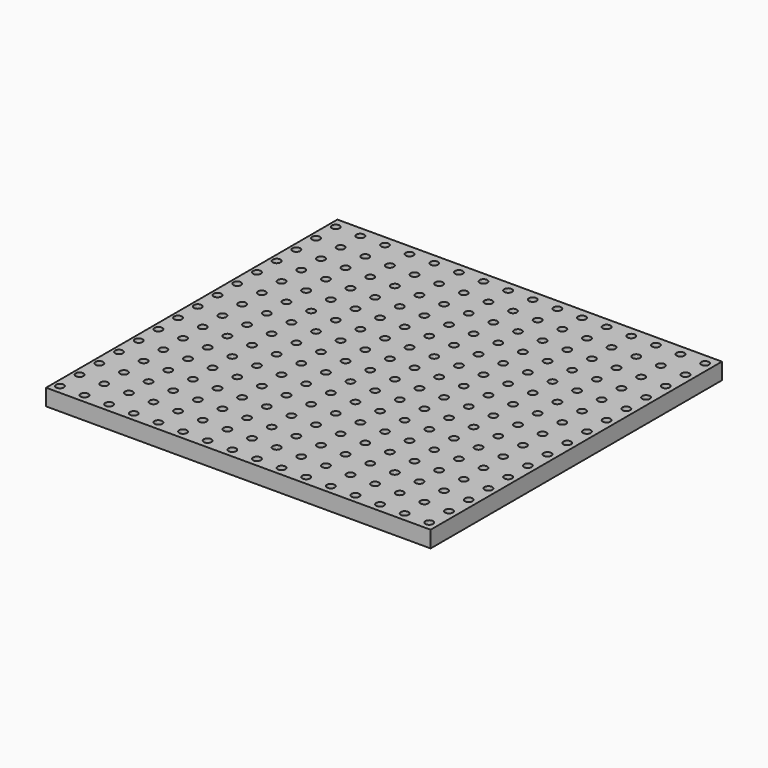
from build123d import *

# Parameters (mm, degrees)
F0_W     = 39.659133
F0_H     = 37.554769
F0_R     = 0.4
F1_DEPTH = 1.7


with BuildPart() as f1:
    # F0 (on Top) → F1 (new body)
    with BuildSketch(Plane.XY):
        with Locations((-11.871156, -15.675176)):
            Rectangle(F0_W, F0_H)
        with Locations((-31.007981, -33.537454)):
            Circle(F0_R, mode=Mode.SUBTRACT)
        with Locations((-28.467981, -33.537454)):
            Circle(F0_R, mode=Mode.SUBTRACT)
        with Locations((-31.007981, -30.997454)):
            Circle(F0_R, mode=Mode.SUBTRACT)
        with Locations((-28.467981, -30.997454)):
            Circle(F0_R, mode=Mode.SUBTRACT)
        with Locations((-25.927981, -33.537454)):
            Circle(F0_R, mode=Mode.SUBTRACT)
        with Locations((-23.387981, -33.537454)):
            Circle(F0_R, mode=Mode.SUBTRACT)
        with Locations((-25.927981, -30.997454)):
            Circle(F0_R, mode=Mode.SUBTRACT)
        with Locations((-23.387981, -30.997454)):
            Circle(F0_R, mode=Mode.SUBTRACT)
        with Locations((-31.007981, -28.457454)):
            Circle(F0_R, mode=Mode.SUBTRACT)
        with Locations((-28.467981, -28.457454)):
            Circle(F0_R, mode=Mode.SUBTRACT)
        with Locations((-31.007981, -25.917454)):
            Circle(F0_R, mode=Mode.SUBTRACT)
        with Locations((-28.467981, -25.917454)):
            Circle(F0_R, mode=Mode.SUBTRACT)
        with Locations((-25.927981, -28.457454)):
            Circle(F0_R, mode=Mode.SUBTRACT)
        with Locations((-23.387981, -28.457454)):
            Circle(F0_R, mode=Mode.SUBTRACT)
        with Locations((-25.927981, -25.917454)):
            Circle(F0_R, mode=Mode.SUBTRACT)
        with Locations((-23.387981, -25.917454)):
            Circle(F0_R, mode=Mode.SUBTRACT)
        with Locations((-20.847981, -33.537454)):
            Circle(F0_R, mode=Mode.SUBTRACT)
        with Locations((-18.307981, -33.537454)):
            Circle(F0_R, mode=Mode.SUBTRACT)
        with Locations((-20.847981, -30.997454)):
            Circle(F0_R, mode=Mode.SUBTRACT)
        with Locations((-18.307981, -30.997454)):
            Circle(F0_R, mode=Mode.SUBTRACT)
        with Locations((-15.767981, -33.537454)):
            Circle(F0_R, mode=Mode.SUBTRACT)
        with Locations((-13.227981, -33.537454)):
            Circle(F0_R, mode=Mode.SUBTRACT)
        with Locations((-15.767981, -30.997454)):
            Circle(F0_R, mode=Mode.SUBTRACT)
        with Locations((-13.227981, -30.997454)):
            Circle(F0_R, mode=Mode.SUBTRACT)
        with Locations((-20.847981, -28.457454)):
            Circle(F0_R, mode=Mode.SUBTRACT)
        with Locations((-18.307981, -28.457454)):
            Circle(F0_R, mode=Mode.SUBTRACT)
        with Locations((-20.847981, -25.917454)):
            Circle(F0_R, mode=Mode.SUBTRACT)
        with Locations((-18.307981, -25.917454)):
            Circle(F0_R, mode=Mode.SUBTRACT)
        with Locations((-15.767981, -28.457454)):
            Circle(F0_R, mode=Mode.SUBTRACT)
        with Locations((-13.227981, -28.457454)):
            Circle(F0_R, mode=Mode.SUBTRACT)
        with Locations((-15.767981, -25.917454)):
            Circle(F0_R, mode=Mode.SUBTRACT)
        with Locations((-13.227981, -25.917454)):
            Circle(F0_R, mode=Mode.SUBTRACT)
        with Locations((-31.007981, -23.377454)):
            Circle(F0_R, mode=Mode.SUBTRACT)
        with Locations((-28.467981, -23.377454)):
            Circle(F0_R, mode=Mode.SUBTRACT)
        with Locations((-31.007981, -20.837454)):
            Circle(F0_R, mode=Mode.SUBTRACT)
        with Locations((-28.467981, -20.837454)):
            Circle(F0_R, mode=Mode.SUBTRACT)
        with Locations((-25.927981, -23.377454)):
            Circle(F0_R, mode=Mode.SUBTRACT)
        with Locations((-23.387981, -23.377454)):
            Circle(F0_R, mode=Mode.SUBTRACT)
        with Locations((-25.927981, -20.837454)):
            Circle(F0_R, mode=Mode.SUBTRACT)
        with Locations((-23.387981, -20.837454)):
            Circle(F0_R, mode=Mode.SUBTRACT)
        with Locations((-31.007981, -18.297454)):
            Circle(F0_R, mode=Mode.SUBTRACT)
        with Locations((-28.467981, -18.297454)):
            Circle(F0_R, mode=Mode.SUBTRACT)
        with Locations((-31.007981, -15.757454)):
            Circle(F0_R, mode=Mode.SUBTRACT)
        with Locations((-28.467981, -15.757454)):
            Circle(F0_R, mode=Mode.SUBTRACT)
        with Locations((-25.927981, -18.297454)):
            Circle(F0_R, mode=Mode.SUBTRACT)
        with Locations((-23.387981, -18.297454)):
            Circle(F0_R, mode=Mode.SUBTRACT)
        with Locations((-25.927981, -15.757454)):
            Circle(F0_R, mode=Mode.SUBTRACT)
        with Locations((-23.387981, -15.757454)):
            Circle(F0_R, mode=Mode.SUBTRACT)
        with Locations((-20.847981, -23.377454)):
            Circle(F0_R, mode=Mode.SUBTRACT)
        with Locations((-18.307981, -23.377454)):
            Circle(F0_R, mode=Mode.SUBTRACT)
        with Locations((-20.847981, -20.837454)):
            Circle(F0_R, mode=Mode.SUBTRACT)
        with Locations((-18.307981, -20.837454)):
            Circle(F0_R, mode=Mode.SUBTRACT)
        with Locations((-15.767981, -23.377454)):
            Circle(F0_R, mode=Mode.SUBTRACT)
        with Locations((-13.227981, -23.377454)):
            Circle(F0_R, mode=Mode.SUBTRACT)
        with Locations((-15.767981, -20.837454)):
            Circle(F0_R, mode=Mode.SUBTRACT)
        with Locations((-13.227981, -20.837454)):
            Circle(F0_R, mode=Mode.SUBTRACT)
        with Locations((-20.847981, -18.297454)):
            Circle(F0_R, mode=Mode.SUBTRACT)
        with Locations((-18.307981, -18.297454)):
            Circle(F0_R, mode=Mode.SUBTRACT)
        with Locations((-20.847981, -15.757454)):
            Circle(F0_R, mode=Mode.SUBTRACT)
        with Locations((-18.307981, -15.757454)):
            Circle(F0_R, mode=Mode.SUBTRACT)
        with Locations((-15.767981, -18.297454)):
            Circle(F0_R, mode=Mode.SUBTRACT)
        with Locations((-13.227981, -18.297454)):
            Circle(F0_R, mode=Mode.SUBTRACT)
        with Locations((-15.767981, -15.757454)):
            Circle(F0_R, mode=Mode.SUBTRACT)
        with Locations((-13.227981, -15.757454)):
            Circle(F0_R, mode=Mode.SUBTRACT)
        with Locations((-10.687981, -33.537454)):
            Circle(F0_R, mode=Mode.SUBTRACT)
        with Locations((-8.147981, -33.537454)):
            Circle(F0_R, mode=Mode.SUBTRACT)
        with Locations((-10.687981, -30.997454)):
            Circle(F0_R, mode=Mode.SUBTRACT)
        with Locations((-8.147981, -30.997454)):
            Circle(F0_R, mode=Mode.SUBTRACT)
        with Locations((-5.607981, -33.537454)):
            Circle(F0_R, mode=Mode.SUBTRACT)
        with Locations((-3.067981, -33.537454)):
            Circle(F0_R, mode=Mode.SUBTRACT)
        with Locations((-5.607981, -30.997454)):
            Circle(F0_R, mode=Mode.SUBTRACT)
        with Locations((-3.067981, -30.997454)):
            Circle(F0_R, mode=Mode.SUBTRACT)
        with Locations((-10.687981, -28.457454)):
            Circle(F0_R, mode=Mode.SUBTRACT)
        with Locations((-8.147981, -28.457454)):
            Circle(F0_R, mode=Mode.SUBTRACT)
        with Locations((-10.687981, -25.917454)):
            Circle(F0_R, mode=Mode.SUBTRACT)
        with Locations((-8.147981, -25.917454)):
            Circle(F0_R, mode=Mode.SUBTRACT)
        with Locations((-5.607981, -28.457454)):
            Circle(F0_R, mode=Mode.SUBTRACT)
        with Locations((-3.067981, -28.457454)):
            Circle(F0_R, mode=Mode.SUBTRACT)
        with Locations((-5.607981, -25.917454)):
            Circle(F0_R, mode=Mode.SUBTRACT)
        with Locations((-3.067981, -25.917454)):
            Circle(F0_R, mode=Mode.SUBTRACT)
        with Locations((-0.527981, -33.537454)):
            Circle(F0_R, mode=Mode.SUBTRACT)
        with Locations((2.012019, -33.537454)):
            Circle(F0_R, mode=Mode.SUBTRACT)
        with Locations((-0.527981, -30.997454)):
            Circle(F0_R, mode=Mode.SUBTRACT)
        with Locations((2.012019, -30.997454)):
            Circle(F0_R, mode=Mode.SUBTRACT)
        with Locations((4.552019, -33.537454)):
            Circle(F0_R, mode=Mode.SUBTRACT)
        with Locations((7.092019, -33.537454)):
            Circle(F0_R, mode=Mode.SUBTRACT)
        with Locations((4.552019, -30.997454)):
            Circle(F0_R, mode=Mode.SUBTRACT)
        with Locations((7.092019, -30.997454)):
            Circle(F0_R, mode=Mode.SUBTRACT)
        with Locations((-0.527981, -28.457454)):
            Circle(F0_R, mode=Mode.SUBTRACT)
        with Locations((2.012019, -28.457454)):
            Circle(F0_R, mode=Mode.SUBTRACT)
        with Locations((-0.527981, -25.917454)):
            Circle(F0_R, mode=Mode.SUBTRACT)
        with Locations((2.012019, -25.917454)):
            Circle(F0_R, mode=Mode.SUBTRACT)
        with Locations((4.552019, -28.457454)):
            Circle(F0_R, mode=Mode.SUBTRACT)
        with Locations((7.092019, -28.457454)):
            Circle(F0_R, mode=Mode.SUBTRACT)
        with Locations((4.552019, -25.917454)):
            Circle(F0_R, mode=Mode.SUBTRACT)
        with Locations((7.092019, -25.917454)):
            Circle(F0_R, mode=Mode.SUBTRACT)
        with Locations((-10.687981, -23.377454)):
            Circle(F0_R, mode=Mode.SUBTRACT)
        with Locations((-8.147981, -23.377454)):
            Circle(F0_R, mode=Mode.SUBTRACT)
        with Locations((-10.687981, -20.837454)):
            Circle(F0_R, mode=Mode.SUBTRACT)
        with Locations((-8.147981, -20.837454)):
            Circle(F0_R, mode=Mode.SUBTRACT)
        with Locations((-5.607981, -23.377454)):
            Circle(F0_R, mode=Mode.SUBTRACT)
        with Locations((-3.067981, -23.377454)):
            Circle(F0_R, mode=Mode.SUBTRACT)
        with Locations((-5.607981, -20.837454)):
            Circle(F0_R, mode=Mode.SUBTRACT)
        with Locations((-3.067981, -20.837454)):
            Circle(F0_R, mode=Mode.SUBTRACT)
        with Locations((-10.687981, -18.297454)):
            Circle(F0_R, mode=Mode.SUBTRACT)
        with Locations((-8.147981, -18.297454)):
            Circle(F0_R, mode=Mode.SUBTRACT)
        with Locations((-10.687981, -15.757454)):
            Circle(F0_R, mode=Mode.SUBTRACT)
        with Locations((-8.147981, -15.757454)):
            Circle(F0_R, mode=Mode.SUBTRACT)
        with Locations((-5.607981, -18.297454)):
            Circle(F0_R, mode=Mode.SUBTRACT)
        with Locations((-3.067981, -18.297454)):
            Circle(F0_R, mode=Mode.SUBTRACT)
        with Locations((-5.607981, -15.757454)):
            Circle(F0_R, mode=Mode.SUBTRACT)
        with Locations((-3.067981, -15.757454)):
            Circle(F0_R, mode=Mode.SUBTRACT)
        with Locations((-0.527981, -23.377454)):
            Circle(F0_R, mode=Mode.SUBTRACT)
        with Locations((2.012019, -23.377454)):
            Circle(F0_R, mode=Mode.SUBTRACT)
        with Locations((-0.527981, -20.837454)):
            Circle(F0_R, mode=Mode.SUBTRACT)
        with Locations((2.012019, -20.837454)):
            Circle(F0_R, mode=Mode.SUBTRACT)
        with Locations((4.552019, -23.377454)):
            Circle(F0_R, mode=Mode.SUBTRACT)
        with Locations((7.092019, -23.377454)):
            Circle(F0_R, mode=Mode.SUBTRACT)
        with Locations((4.552019, -20.837454)):
            Circle(F0_R, mode=Mode.SUBTRACT)
        with Locations((7.092019, -20.837454)):
            Circle(F0_R, mode=Mode.SUBTRACT)
        with Locations((-0.527981, -18.297454)):
            Circle(F0_R, mode=Mode.SUBTRACT)
        with Locations((2.012019, -18.297454)):
            Circle(F0_R, mode=Mode.SUBTRACT)
        with Locations((-0.527981, -15.757454)):
            Circle(F0_R, mode=Mode.SUBTRACT)
        with Locations((2.012019, -15.757454)):
            Circle(F0_R, mode=Mode.SUBTRACT)
        with Locations((4.552019, -18.297454)):
            Circle(F0_R, mode=Mode.SUBTRACT)
        with Locations((7.092019, -18.297454)):
            Circle(F0_R, mode=Mode.SUBTRACT)
        with Locations((4.552019, -15.757454)):
            Circle(F0_R, mode=Mode.SUBTRACT)
        with Locations((7.092019, -15.757454)):
            Circle(F0_R, mode=Mode.SUBTRACT)
        with Locations((-31.007981, -13.217454)):
            Circle(F0_R, mode=Mode.SUBTRACT)
        with Locations((-28.467981, -13.217454)):
            Circle(F0_R, mode=Mode.SUBTRACT)
        with Locations((-25.927981, -13.217454)):
            Circle(F0_R, mode=Mode.SUBTRACT)
        with Locations((-23.387981, -13.217454)):
            Circle(F0_R, mode=Mode.SUBTRACT)
        with Locations((-31.007981, -10.677454)):
            Circle(F0_R, mode=Mode.SUBTRACT)
        with Locations((-28.467981, -10.677454)):
            Circle(F0_R, mode=Mode.SUBTRACT)
        with Locations((-31.007981, -8.137454)):
            Circle(F0_R, mode=Mode.SUBTRACT)
        with Locations((-28.467981, -8.137454)):
            Circle(F0_R, mode=Mode.SUBTRACT)
        with Locations((-25.927981, -10.677454)):
            Circle(F0_R, mode=Mode.SUBTRACT)
        with Locations((-23.387981, -10.677454)):
            Circle(F0_R, mode=Mode.SUBTRACT)
        with Locations((-25.927981, -8.137454)):
            Circle(F0_R, mode=Mode.SUBTRACT)
        with Locations((-23.387981, -8.137454)):
            Circle(F0_R, mode=Mode.SUBTRACT)
        with Locations((-20.847981, -13.217454)):
            Circle(F0_R, mode=Mode.SUBTRACT)
        with Locations((-18.307981, -13.217454)):
            Circle(F0_R, mode=Mode.SUBTRACT)
        with Locations((-15.767981, -13.217454)):
            Circle(F0_R, mode=Mode.SUBTRACT)
        with Locations((-13.227981, -13.217454)):
            Circle(F0_R, mode=Mode.SUBTRACT)
        with Locations((-20.847981, -10.677454)):
            Circle(F0_R, mode=Mode.SUBTRACT)
        with Locations((-18.307981, -10.677454)):
            Circle(F0_R, mode=Mode.SUBTRACT)
        with Locations((-20.847981, -8.137454)):
            Circle(F0_R, mode=Mode.SUBTRACT)
        with Locations((-18.307981, -8.137454)):
            Circle(F0_R, mode=Mode.SUBTRACT)
        with Locations((-15.767981, -10.677454)):
            Circle(F0_R, mode=Mode.SUBTRACT)
        with Locations((-13.227981, -10.677454)):
            Circle(F0_R, mode=Mode.SUBTRACT)
        with Locations((-15.767981, -8.137454)):
            Circle(F0_R, mode=Mode.SUBTRACT)
        with Locations((-13.227981, -8.137454)):
            Circle(F0_R, mode=Mode.SUBTRACT)
        with Locations((-31.007981, -5.597454)):
            Circle(F0_R, mode=Mode.SUBTRACT)
        with Locations((-28.467981, -5.597454)):
            Circle(F0_R, mode=Mode.SUBTRACT)
        with Locations((-31.007981, -3.057454)):
            Circle(F0_R, mode=Mode.SUBTRACT)
        with Locations((-28.467981, -3.057454)):
            Circle(F0_R, mode=Mode.SUBTRACT)
        with Locations((-25.927981, -5.597454)):
            Circle(F0_R, mode=Mode.SUBTRACT)
        with Locations((-23.387981, -5.597454)):
            Circle(F0_R, mode=Mode.SUBTRACT)
        with Locations((-25.927981, -3.057454)):
            Circle(F0_R, mode=Mode.SUBTRACT)
        with Locations((-23.387981, -3.057454)):
            Circle(F0_R, mode=Mode.SUBTRACT)
        with Locations((-31.007981, -0.517454)):
            Circle(F0_R, mode=Mode.SUBTRACT)
        with Locations((-28.467981, -0.517454)):
            Circle(F0_R, mode=Mode.SUBTRACT)
        with Locations((-31.007981, 2.022546)):
            Circle(F0_R, mode=Mode.SUBTRACT)
        with Locations((-28.467981, 2.022546)):
            Circle(F0_R, mode=Mode.SUBTRACT)
        with Locations((-25.927981, -0.517454)):
            Circle(F0_R, mode=Mode.SUBTRACT)
        with Locations((-23.387981, -0.517454)):
            Circle(F0_R, mode=Mode.SUBTRACT)
        with Locations((-25.927981, 2.022546)):
            Circle(F0_R, mode=Mode.SUBTRACT)
        with Locations((-23.387981, 2.022546)):
            Circle(F0_R, mode=Mode.SUBTRACT)
        with Locations((-20.847981, -5.597454)):
            Circle(F0_R, mode=Mode.SUBTRACT)
        with Locations((-18.307981, -5.597454)):
            Circle(F0_R, mode=Mode.SUBTRACT)
        with Locations((-20.847981, -3.057454)):
            Circle(F0_R, mode=Mode.SUBTRACT)
        with Locations((-18.307981, -3.057454)):
            Circle(F0_R, mode=Mode.SUBTRACT)
        with Locations((-15.767981, -5.597454)):
            Circle(F0_R, mode=Mode.SUBTRACT)
        with Locations((-13.227981, -5.597454)):
            Circle(F0_R, mode=Mode.SUBTRACT)
        with Locations((-15.767981, -3.057454)):
            Circle(F0_R, mode=Mode.SUBTRACT)
        with Locations((-13.227981, -3.057454)):
            Circle(F0_R, mode=Mode.SUBTRACT)
        with Locations((-20.847981, -0.517454)):
            Circle(F0_R, mode=Mode.SUBTRACT)
        with Locations((-18.307981, -0.517454)):
            Circle(F0_R, mode=Mode.SUBTRACT)
        with Locations((-20.847981, 2.022546)):
            Circle(F0_R, mode=Mode.SUBTRACT)
        with Locations((-18.307981, 2.022546)):
            Circle(F0_R, mode=Mode.SUBTRACT)
        with Locations((-15.767981, -0.517454)):
            Circle(F0_R, mode=Mode.SUBTRACT)
        with Locations((-13.227981, -0.517454)):
            Circle(F0_R, mode=Mode.SUBTRACT)
        with Locations((-15.767981, 2.022546)):
            Circle(F0_R, mode=Mode.SUBTRACT)
        with Locations((-13.227981, 2.022546)):
            Circle(F0_R, mode=Mode.SUBTRACT)
        with Locations((-10.687981, -13.217454)):
            Circle(F0_R, mode=Mode.SUBTRACT)
        with Locations((-8.147981, -13.217454)):
            Circle(F0_R, mode=Mode.SUBTRACT)
        with Locations((-5.607981, -13.217454)):
            Circle(F0_R, mode=Mode.SUBTRACT)
        with Locations((-3.067981, -13.217454)):
            Circle(F0_R, mode=Mode.SUBTRACT)
        with Locations((-10.687981, -10.677454)):
            Circle(F0_R, mode=Mode.SUBTRACT)
        with Locations((-8.147981, -10.677454)):
            Circle(F0_R, mode=Mode.SUBTRACT)
        with Locations((-10.687981, -8.137454)):
            Circle(F0_R, mode=Mode.SUBTRACT)
        with Locations((-8.147981, -8.137454)):
            Circle(F0_R, mode=Mode.SUBTRACT)
        with Locations((-5.607981, -10.677454)):
            Circle(F0_R, mode=Mode.SUBTRACT)
        with Locations((-3.067981, -10.677454)):
            Circle(F0_R, mode=Mode.SUBTRACT)
        with Locations((-5.607981, -8.137454)):
            Circle(F0_R, mode=Mode.SUBTRACT)
        with Locations((-3.067981, -8.137454)):
            Circle(F0_R, mode=Mode.SUBTRACT)
        with Locations((-0.527981, -13.217454)):
            Circle(F0_R, mode=Mode.SUBTRACT)
        with Locations((2.012019, -13.217454)):
            Circle(F0_R, mode=Mode.SUBTRACT)
        with Locations((4.552019, -13.217454)):
            Circle(F0_R, mode=Mode.SUBTRACT)
        with Locations((7.092019, -13.217454)):
            Circle(F0_R, mode=Mode.SUBTRACT)
        with Locations((-0.527981, -10.677454)):
            Circle(F0_R, mode=Mode.SUBTRACT)
        with Locations((2.012019, -10.677454)):
            Circle(F0_R, mode=Mode.SUBTRACT)
        with Locations((-0.527981, -8.137454)):
            Circle(F0_R, mode=Mode.SUBTRACT)
        with Locations((2.012019, -8.137454)):
            Circle(F0_R, mode=Mode.SUBTRACT)
        with Locations((4.552019, -10.677454)):
            Circle(F0_R, mode=Mode.SUBTRACT)
        with Locations((7.092019, -10.677454)):
            Circle(F0_R, mode=Mode.SUBTRACT)
        with Locations((4.552019, -8.137454)):
            Circle(F0_R, mode=Mode.SUBTRACT)
        with Locations((7.092019, -8.137454)):
            Circle(F0_R, mode=Mode.SUBTRACT)
        with Locations((-10.687981, -5.597454)):
            Circle(F0_R, mode=Mode.SUBTRACT)
        with Locations((-8.147981, -5.597454)):
            Circle(F0_R, mode=Mode.SUBTRACT)
        with Locations((-10.687981, -3.057454)):
            Circle(F0_R, mode=Mode.SUBTRACT)
        with Locations((-8.147981, -3.057454)):
            Circle(F0_R, mode=Mode.SUBTRACT)
        with Locations((-5.607981, -5.597454)):
            Circle(F0_R, mode=Mode.SUBTRACT)
        with Locations((-3.067981, -5.597454)):
            Circle(F0_R, mode=Mode.SUBTRACT)
        with Locations((-5.607981, -3.057454)):
            Circle(F0_R, mode=Mode.SUBTRACT)
        with Locations((-3.067981, -3.057454)):
            Circle(F0_R, mode=Mode.SUBTRACT)
        with Locations((-10.687981, -0.517454)):
            Circle(F0_R, mode=Mode.SUBTRACT)
        with Locations((-8.147981, -0.517454)):
            Circle(F0_R, mode=Mode.SUBTRACT)
        with Locations((-10.687981, 2.022546)):
            Circle(F0_R, mode=Mode.SUBTRACT)
        with Locations((-8.147981, 2.022546)):
            Circle(F0_R, mode=Mode.SUBTRACT)
        with Locations((-5.607981, -0.517454)):
            Circle(F0_R, mode=Mode.SUBTRACT)
        with Locations((-3.067981, -0.517454)):
            Circle(F0_R, mode=Mode.SUBTRACT)
        with Locations((-5.607981, 2.022546)):
            Circle(F0_R, mode=Mode.SUBTRACT)
        with Locations((-3.067981, 2.022546)):
            Circle(F0_R, mode=Mode.SUBTRACT)
        with Locations((-0.527981, -5.597454)):
            Circle(F0_R, mode=Mode.SUBTRACT)
        with Locations((2.012019, -5.597454)):
            Circle(F0_R, mode=Mode.SUBTRACT)
        with Locations((-0.527981, -3.057454)):
            Circle(F0_R, mode=Mode.SUBTRACT)
        with Locations((2.012019, -3.057454)):
            Circle(F0_R, mode=Mode.SUBTRACT)
        with Locations((4.552019, -5.597454)):
            Circle(F0_R, mode=Mode.SUBTRACT)
        with Locations((7.092019, -5.597454)):
            Circle(F0_R, mode=Mode.SUBTRACT)
        with Locations((4.552019, -3.057454)):
            Circle(F0_R, mode=Mode.SUBTRACT)
        with Locations((7.092019, -3.057454)):
            Circle(F0_R, mode=Mode.SUBTRACT)
        with Locations((-0.527981, -0.517454)):
            Circle(F0_R, mode=Mode.SUBTRACT)
        with Locations((2.012019, -0.517454)):
            Circle(F0_R, mode=Mode.SUBTRACT)
        with Locations((-0.527981, 2.022546)):
            Circle(F0_R, mode=Mode.SUBTRACT)
        with Locations((2.012019, 2.022546)):
            Circle(F0_R, mode=Mode.SUBTRACT)
        with Locations((4.552019, -0.517454)):
            Circle(F0_R, mode=Mode.SUBTRACT)
        with Locations((7.092019, -0.517454)):
            Circle(F0_R, mode=Mode.SUBTRACT)
        with Locations((4.552019, 2.022546)):
            Circle(F0_R, mode=Mode.SUBTRACT)
        with Locations((7.092019, 2.022546)):
            Circle(F0_R, mode=Mode.SUBTRACT)
    extrude(amount=F1_DEPTH)


solid = f1.part
